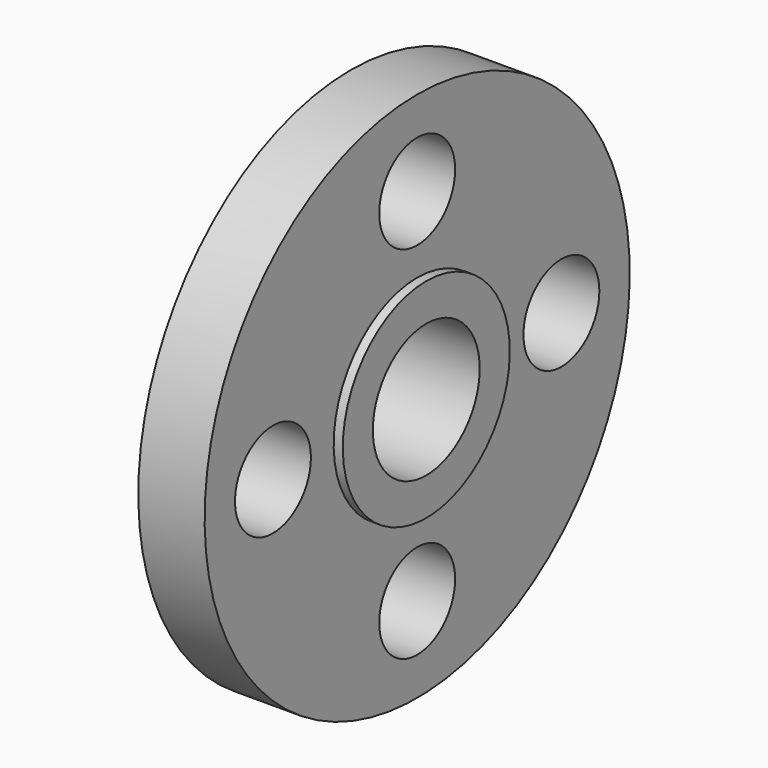
from build123d import *

# Parameters (mm, degrees)
F2_R     = 7.9375
F3_DEPTH = 14.352


with BuildPart() as f1:
    # F0 (on Front) → F1 (revolve)
    with BuildSketch(Plane.XZ):
        Polygon((0, 15.0876), (0, 11.176), (15.875, 11.176), (15.875, 17.4625), (14.351, 17.4625), (14.351, 44.45), (3.2512, 44.45), (3.2512, 15.0876), align=None)
    revolve(axis=Axis((0.385378, 0, 0), (1, 0, 0)))

    # F2 (on face) → F3 (cut, through all)
    with BuildSketch(Plane.YZ.offset(14.351)):
        with Locations((0, 30.1625)):
            Circle(F2_R)
        with Locations((0, -30.1625)):
            Circle(F2_R)
        with Locations((-30.1625, 0)):
            Circle(F2_R)
        with Locations((30.1625, 0)):
            Circle(F2_R)
    extrude(amount=-F3_DEPTH, mode=Mode.SUBTRACT)


solid = f1.part
